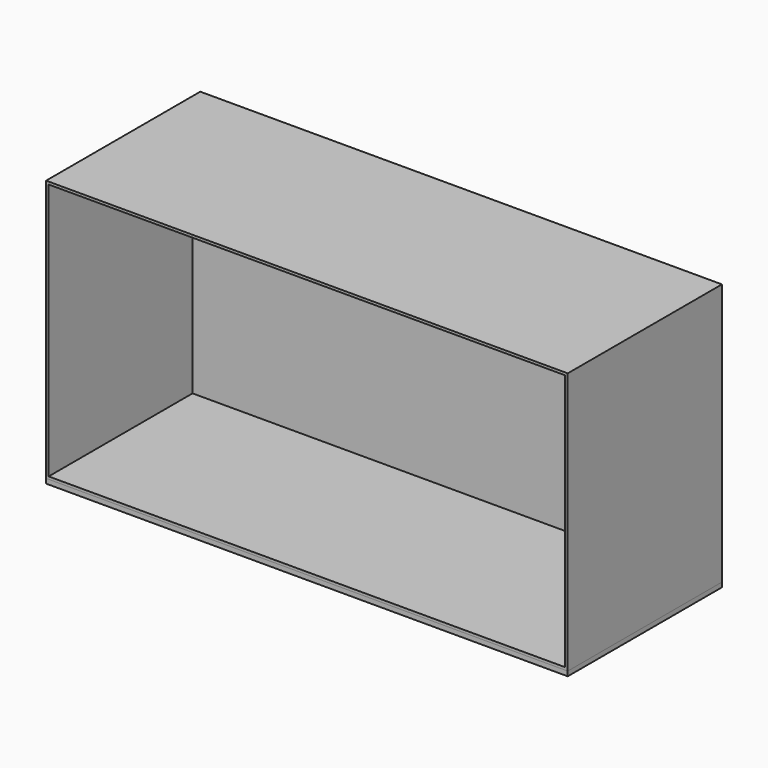
from build123d import *

# Parameters (mm, degrees)
F0_W     = 2030
F0_H     = 1020
F1_DEPTH = 750
F2_W     = 2010
F2_H     = 1000
F3_DEPTH = 700
F4_W     = 2030
F4_H     = 750
F5_DEPTH = 18


with BuildPart() as f1:
    # F0 (on Front) → F1 (new body)
    with BuildSketch(Plane.XZ):
        Rectangle(F0_W, F0_H)
    extrude(amount=F1_DEPTH)

    # F2 (on face) → F3 (cut)
    with BuildSketch(Plane.XZ.offset(750)):
        Rectangle(F2_W, F2_H)
    extrude(amount=-F3_DEPTH, mode=Mode.SUBTRACT)


with BuildPart() as f5:
    # F4 (on face) → F5 (new body)
    with BuildSketch(Plane(origin=(0, 0, -510), x_dir=(1, 0, 0), z_dir=(0, 0, -1))):
        with Locations((0, 375)):
            Rectangle(F4_W, F4_H)
    extrude(amount=F5_DEPTH)


solid = Compound([f1.part, f5.part])
